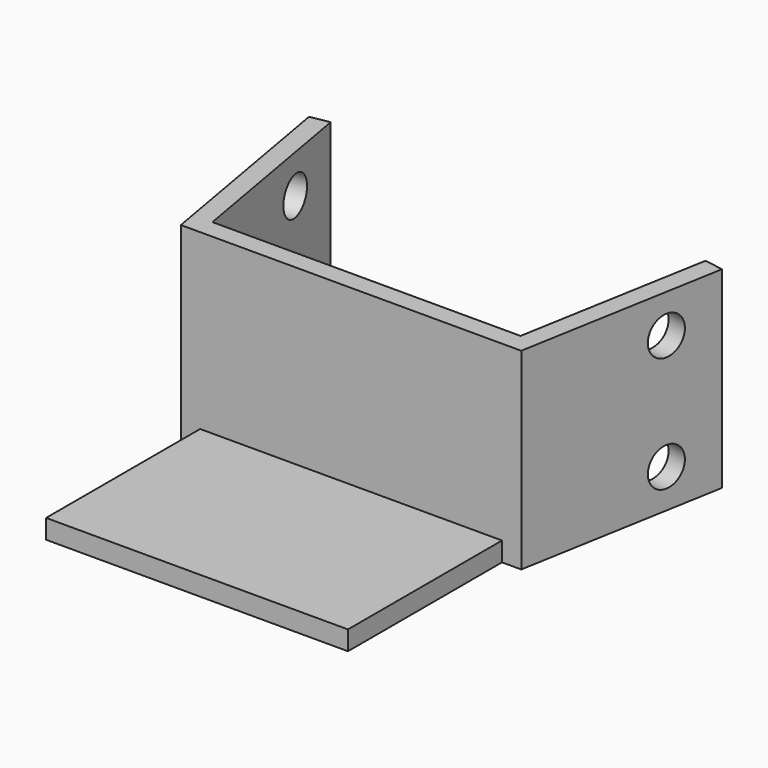
from build123d import *

# Parameters (mm, degrees)
F1_DEPTH = 10
F2_R     = 1
F3_DEPTH = 1
F4_R     = 1
F5_DEPTH = 1
F7_DEPTH = 10


with BuildPart() as f1:
    # F0 (on Top) → F1 (new body)
    with BuildSketch(Plane.XY):
        Polygon((8, 0), (0, 0), (-8, 0), (-9.7364817767, 9.8480775301), (-10.7212895297, 9.6744293525), (-8.8390996312, -1), (0, -1), (8.8390996312, -1), (10.7212895297, 9.6744293525), (9.7364817767, 9.8480775301), align=None)
    extrude(amount=F1_DEPTH)

    # F2 (on face) → F3 (cut, through all)
    with BuildSketch(Plane(origin=(-8.7435782362, -1.541728751, 0), x_dir=(0.1736481777, -0.984807753, 0), z_dir=(-0.984807753, -0.1736481777, 0))):
        with Locations((-8.3891854213, 8)):
            Circle(F2_R)
        with Locations((-8.3891854213, 2)):
            Circle(F2_R)
    extrude(amount=-F3_DEPTH, mode=Mode.SUBTRACT)

    # F4 (on face) → F5 (cut, through all)
    with BuildSketch(Plane(origin=(8.7435782362, -1.541728751, 0), x_dir=(0.1736481777, 0.984807753, 0), z_dir=(0.984807753, -0.1736481777, 0))):
        with Locations((8.3891854213, 8)):
            Circle(F4_R)
        with Locations((8.3891854213, 2)):
            Circle(F4_R)
    extrude(amount=-F5_DEPTH, mode=Mode.SUBTRACT)

    # F6 (on face) → F7 (join)
    with BuildSketch(Plane.XZ.offset(1)):
        Polygon((7.8390996312, 1.3758e-06), (7.8390996312, 1.0000013758), (-7.8390996312, 0.9999986242), (-7.8390996312, -1.3758e-06), align=None)
    extrude(amount=F7_DEPTH)


solid = f1.part
